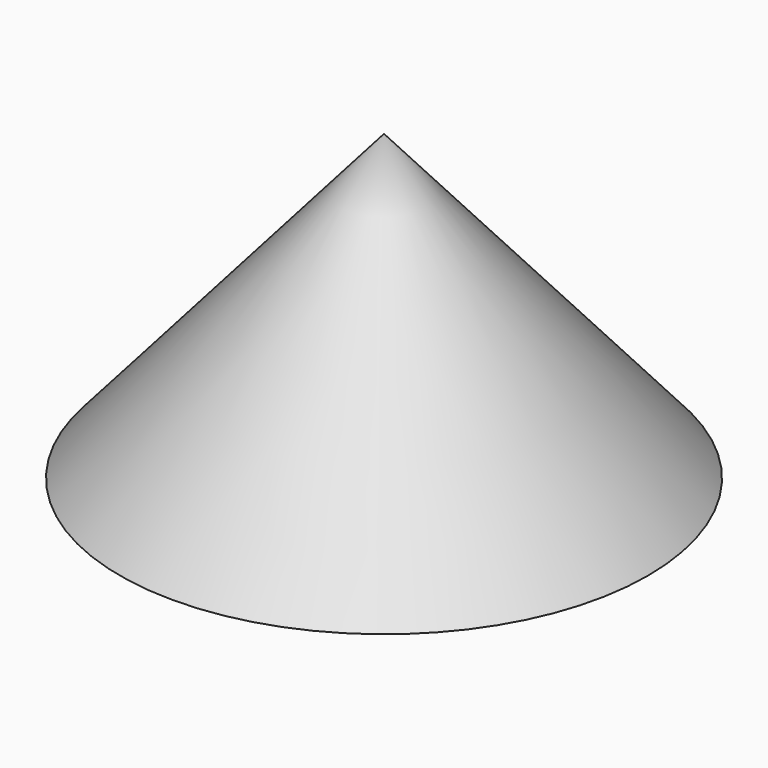
from build123d import *


with BuildPart() as f1:
    # F0 (on Right) → F1 (revolve)
    with BuildSketch(Plane.YZ):
        Polygon((-31.214543, 0), (0, 0), (0, 35.851486), align=None)
    revolve(axis=Axis((0, 0, 17.925743), (0, 0, 1)))


solid = f1.part
